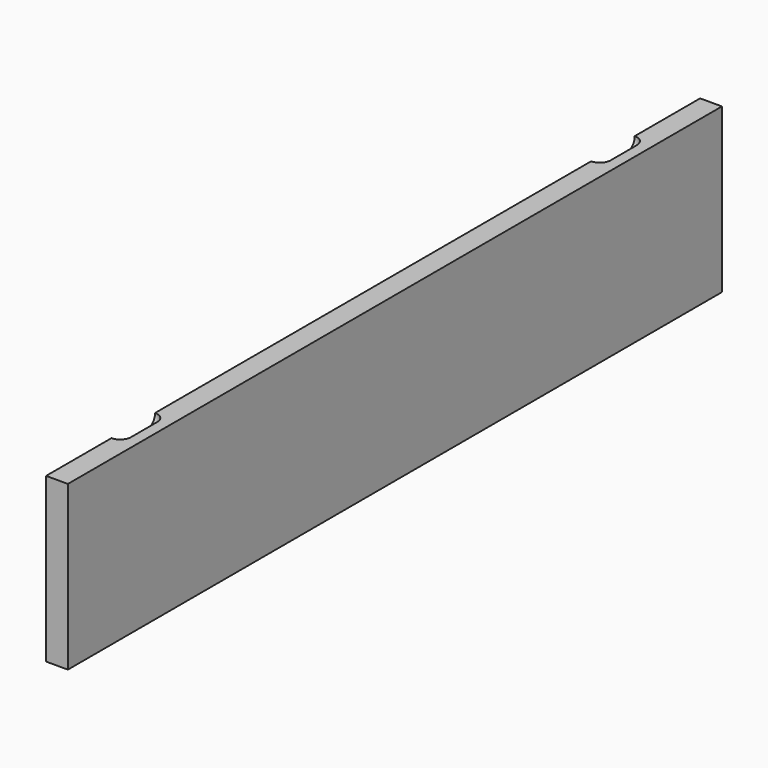
from build123d import *

# Parameters (mm, degrees)
F0_W     = 8
F0_H     = 60
F1_DEPTH = 150
F3_R     = 4
F4_DEPTH = 20
F5_R     = 4


with BuildPart() as f1:
    # F0 (on Front) → F1 (new body, symmetric)
    with BuildSketch(Plane.XZ):
        Rectangle(F0_W, F0_H)
    extrude(amount=F1_DEPTH, both=True)


with BuildPart() as f4:
    # F3 (on offset) → F4 (new body)
    with BuildSketch(Plane.XZ.offset(120)):
        with Locations((-4, 30)):
            Circle(F3_R)
    extrude(amount=-F4_DEPTH)

    # F5
    f5_edges = [f4.edges().sort_by_distance(p)[0] for p in [
        (-8, -120, 30),
        (-8, -100, 30),
    ]]
    fillet(f5_edges, radius=F5_R)


with BuildPart() as f6_1:
    # F6: instance of F4
    add(f4.part.mirror(Plane.XZ))


with BuildPart() as f1_1:
    add(f1.part)

    # F7: cut F6_1, F4
    add(f6_1.part, mode=Mode.SUBTRACT)
    add(f4.part, mode=Mode.SUBTRACT)


solid = f1_1.part
